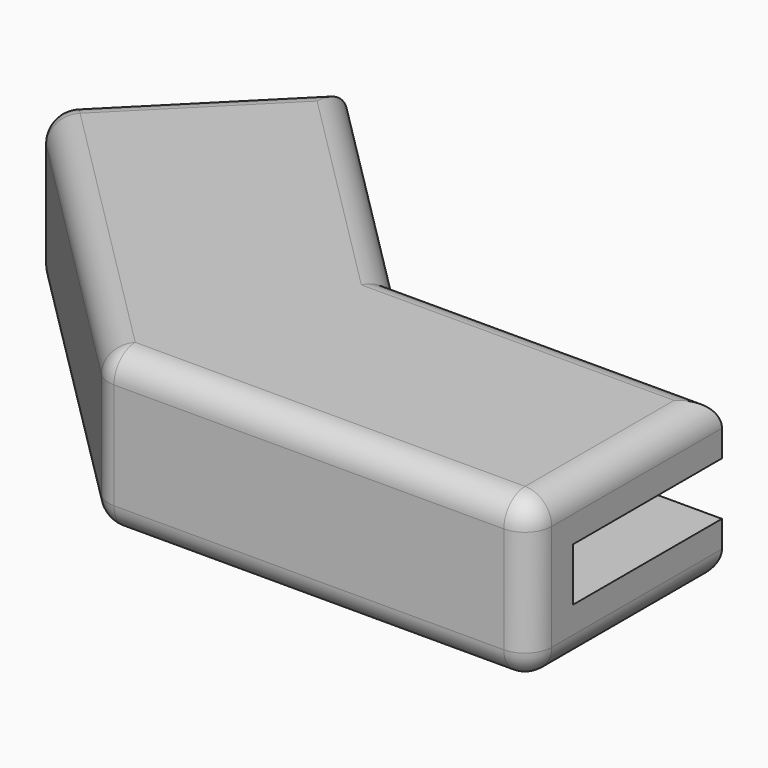
from build123d import *

# Parameters (mm, degrees)
F1_DEPTH = 2
F3_DEPTH = 2
F5_DEPTH = 2
F6_R     = 1


with BuildPart() as f1:
    # F0 (on Top) → F1 (new body)
    with BuildSketch(Plane.XY):
        Polygon((-13.435029, 6.363961), (-2.071068, -5), (14, -5), (14, 4), (1.656854, 4), (-7.071068, 12.727922), align=None)
    extrude(amount=F1_DEPTH)

    # F2 (on face) → F3 (join)
    with BuildSketch(Plane.XY.offset(2)):
        Polygon((-12.020815, 7.778175), (-13.435029, 6.363961), (-2.071068, -5), (14, -5), (14, -3), (-1.242641, -3), align=None)
    extrude(amount=F3_DEPTH)

    # F4 (on face) → F5 (join)
    with BuildSketch(Plane.XY.offset(4)):
        Polygon((-7.071068, 12.727922), (-12.020815, 7.778175), (-13.435029, 6.363961), (-2.071068, -5), (14, -5), (14, -3), (14, 4), (1.656854, 4), align=None)
    extrude(amount=F5_DEPTH)

    # F6
    f6_edges = [f1.edges().sort_by_distance(p)[0] for p in [
        (-13.435029, 6.363961, 3),
        (-7.753048, 0.681981, 6),
        (-2.071068, -5, 3),
        (-7.753048, 0.681981, 0),
        (5.964466, -5, 6),
        (14, -5, 3),
        (5.964466, -5, 0),
        (-10.253048, 9.545942, 0),
        (14, -0.5, 0),
        (7.828427, 4, 0),
        (-2.707107, 8.363961, 0),
        (14, -0.5, 6),
        (7.828427, 4, 6),
        (-2.707107, 8.363961, 6),
        (-10.253048, 9.545942, 6),
    ]]
    fillet(f6_edges, radius=F6_R)


solid = f1.part
